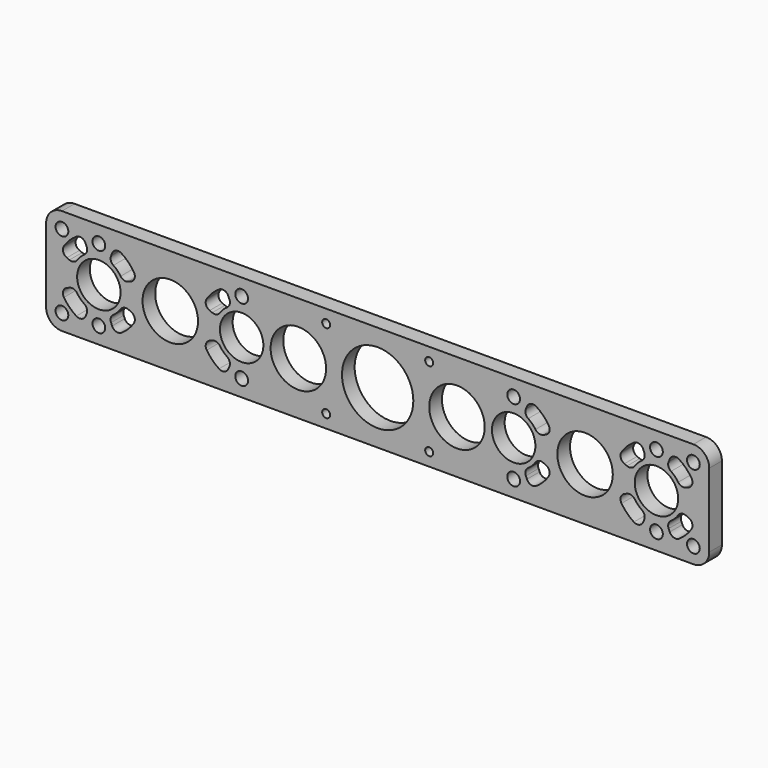
from build123d import *

# Parameters (mm, degrees)
F0_R     = 2.5527
F0_R_2   = 8.6995
F0_R_3   = 11.1125
F0_R_4   = 14.2875
F1_DEPTH = 6.35
F2_R     = 1.5875
F3_DEPTH = 6.351
F5_DEPTH = 6.351


with BuildPart() as f1:
    # F0 (on Front) → F1 (new body)
    with BuildSketch(Plane.XZ):
        with BuildLine():
            Line((111.6838, 21.1455), (-111.6838, 21.1455))
            Line((-111.6838, 21.1455), (-126.4793, 21.1455))
            ThreePointArc((-126.4793, 21.1455), (-130.969428, 19.285628), (-132.8293, 14.7955))
            Line((-132.8293, 14.7955), (-132.8293, -14.7955))
            ThreePointArc((-132.8293, -14.7955), (-130.969428, -19.285628), (-126.4793, -21.1455))
            Line((-126.4793, -21.1455), (-111.6838, -21.1455))
            Line((-111.6838, -21.1455), (111.6838, -21.1455))
            Line((111.6838, -21.1455), (126.4793, -21.1455))
            ThreePointArc((126.4793, -21.1455), (130.969428, -19.285628), (132.8293, -14.7955))
            Line((132.8293, -14.7955), (132.8293, 14.7955))
            ThreePointArc((132.8293, 14.7955), (130.969428, 19.285628), (126.4793, 21.1455))
            Line((126.4793, 21.1455), (111.6838, 21.1455))
        make_face()
        with Locations((-126.4793, -14.7955)):
            Circle(F0_R, mode=Mode.SUBTRACT)
        with Locations((-111.6838, -14.5)):
            Circle(F0_R, mode=Mode.SUBTRACT)
        with Locations((-54.483, -14.5)):
            Circle(F0_R, mode=Mode.SUBTRACT)
        with Locations((54.483, -14.5)):
            Circle(F0_R, mode=Mode.SUBTRACT)
        with Locations((111.6838, -14.5)):
            Circle(F0_R, mode=Mode.SUBTRACT)
        with Locations((126.4793, -14.7955)):
            Circle(F0_R, mode=Mode.SUBTRACT)
        with Locations((-111.6838, 0)):
            Circle(F0_R_2, mode=Mode.SUBTRACT)
        with Locations((-83.0834, 0)):
            Circle(F0_R_3, mode=Mode.SUBTRACT)
        with Locations((-54.483, 0)):
            Circle(F0_R_2, mode=Mode.SUBTRACT)
        with Locations((-31.7754, 0)):
            Circle(F0_R_3, mode=Mode.SUBTRACT)
        with Locations((-126.4793, 14.7955)):
            Circle(F0_R, mode=Mode.SUBTRACT)
        with Locations((-111.6838, 14.5)):
            Circle(F0_R, mode=Mode.SUBTRACT)
        with Locations((-54.483, 14.5)):
            Circle(F0_R, mode=Mode.SUBTRACT)
        Circle(F0_R_4, mode=Mode.SUBTRACT)
        with Locations((31.7754, 0)):
            Circle(F0_R_3, mode=Mode.SUBTRACT)
        with Locations((54.483, 0)):
            Circle(F0_R_2, mode=Mode.SUBTRACT)
        with Locations((83.0834, 0)):
            Circle(F0_R_3, mode=Mode.SUBTRACT)
        with Locations((111.6838, 0)):
            Circle(F0_R_2, mode=Mode.SUBTRACT)
        with Locations((54.483, 14.5)):
            Circle(F0_R, mode=Mode.SUBTRACT)
        with Locations((111.6838, 14.5)):
            Circle(F0_R, mode=Mode.SUBTRACT)
        with Locations((126.4793, 14.7955)):
            Circle(F0_R, mode=Mode.SUBTRACT)
    extrude(amount=F1_DEPTH)

    # F2 (on face) → F3 (cut, through all)
    with BuildSketch(Plane.XZ.offset(6.35)):
        with Locations((20.6375, 15.875)):
            Circle(F2_R)
        with Locations((20.6375, -15.875)):
            Circle(F2_R)
        with Locations((-20.6375, -15.875)):
            Circle(F2_R)
        with Locations((-20.6375, 15.875)):
            Circle(F2_R)
    extrude(amount=-F3_DEPTH, mode=Mode.SUBTRACT)

    # F4 (on face) → F5 (cut, through all)
    with BuildSketch(Plane(origin=(0, 0, 0), x_dir=(-1, 0, 0), z_dir=(0, 1, 0))):
        with BuildLine():
            Line((106.365051, -12.840595), (106.797969, -11.795438))
            ThreePointArc((106.797969, -11.795438), (106.881956, -10.086139), (105.862532, -8.711535))
            ThreePointArc((105.862532, -8.711535), (104.275089, -7.408711), (102.972265, -5.821268))
            ThreePointArc((102.972265, -5.821268), (101.597661, -4.801844), (99.888362, -4.885831))
            Line((99.888362, -4.885831), (98.843205, -5.318749))
            ThreePointArc((98.843205, -5.318749), (97.390414, -6.909154), (97.681543, -9.043453))
            ThreePointArc((97.681543, -9.043453), (99.897214, -11.786586), (102.640347, -14.002257))
            ThreePointArc((102.640347, -14.002257), (104.774646, -14.293386), (106.365051, -12.840595))
        make_face()
        with BuildLine():
            Line((98.843205, 5.318749), (99.888362, 4.885831))
            ThreePointArc((99.888362, 4.885831), (101.597661, 4.801844), (102.972265, 5.821268))
            ThreePointArc((102.972265, 5.821268), (104.275089, 7.408711), (105.862532, 8.711535))
            ThreePointArc((105.862532, 8.711535), (106.881956, 10.086139), (106.797969, 11.795438))
            Line((106.797969, 11.795438), (106.365051, 12.840595))
            ThreePointArc((106.365051, 12.840595), (104.774646, 14.293386), (102.640347, 14.002257))
            ThreePointArc((102.640347, 14.002257), (99.897214, 11.786586), (97.681543, 9.043453))
            ThreePointArc((97.681543, 9.043453), (97.390414, 6.909154), (98.843205, 5.318749))
        make_face()
        with BuildLine():
            Line((117.002549, 12.840595), (116.569631, 11.795438))
            ThreePointArc((116.569631, 11.795438), (116.485644, 10.086139), (117.505068, 8.711535))
            ThreePointArc((117.505068, 8.711535), (119.092511, 7.408711), (120.395335, 5.821268))
            ThreePointArc((120.395335, 5.821268), (121.769939, 4.801844), (123.479238, 4.885831))
            Line((123.479238, 4.885831), (124.524395, 5.318749))
            ThreePointArc((124.524395, 5.318749), (125.977186, 6.909154), (125.686057, 9.043453))
            ThreePointArc((125.686057, 9.043453), (123.470386, 11.786586), (120.727253, 14.002257))
            ThreePointArc((120.727253, 14.002257), (118.592954, 14.293386), (117.002549, 12.840595))
        make_face()
        with BuildLine():
            Line((124.524395, -5.318749), (123.479238, -4.885831))
            ThreePointArc((123.479238, -4.885831), (121.769939, -4.801844), (120.395335, -5.821268))
            ThreePointArc((120.395335, -5.821268), (119.092511, -7.408711), (117.505068, -8.711535))
            ThreePointArc((117.505068, -8.711535), (116.485644, -10.086139), (116.569631, -11.795438))
            Line((116.569631, -11.795438), (117.002549, -12.840595))
            ThreePointArc((117.002549, -12.840595), (118.592954, -14.293386), (120.727253, -14.002257))
            ThreePointArc((120.727253, -14.002257), (123.470386, -11.786586), (125.686057, -9.043453))
            ThreePointArc((125.686057, -9.043453), (125.977186, -6.909154), (124.524395, -5.318749))
        make_face()
        with BuildLine():
            Line((59.801749, 12.840595), (59.368831, 11.795438))
            ThreePointArc((59.368831, 11.795438), (59.284844, 10.086139), (60.304268, 8.711535))
            ThreePointArc((60.304268, 8.711535), (61.891711, 7.408711), (63.194535, 5.821268))
            ThreePointArc((63.194535, 5.821268), (64.569139, 4.801844), (66.278438, 4.885831))
            Line((66.278438, 4.885831), (67.323595, 5.318749))
            ThreePointArc((67.323595, 5.318749), (68.776386, 6.909154), (68.485257, 9.043453))
            ThreePointArc((68.485257, 9.043453), (66.269586, 11.786586), (63.526453, 14.002257))
            ThreePointArc((63.526453, 14.002257), (61.392154, 14.293386), (59.801749, 12.840595))
        make_face()
        with BuildLine():
            Line((67.323595, -5.318749), (66.278438, -4.885831))
            ThreePointArc((66.278438, -4.885831), (64.569139, -4.801844), (63.194535, -5.821268))
            ThreePointArc((63.194535, -5.821268), (61.891711, -7.408711), (60.304268, -8.711535))
            ThreePointArc((60.304268, -8.711535), (59.284844, -10.086139), (59.368831, -11.795438))
            Line((59.368831, -11.795438), (59.801749, -12.840595))
            ThreePointArc((59.801749, -12.840595), (61.392154, -14.293386), (63.526453, -14.002257))
            ThreePointArc((63.526453, -14.002257), (66.269586, -11.786586), (68.485257, -9.043453))
            ThreePointArc((68.485257, -9.043453), (68.776386, -6.909154), (67.323595, -5.318749))
        make_face()
        with BuildLine():
            Line((-59.801749, -12.840595), (-59.368831, -11.795438))
            ThreePointArc((-59.368831, -11.795438), (-59.284844, -10.086139), (-60.304268, -8.711535))
            ThreePointArc((-60.304268, -8.711535), (-61.891711, -7.408711), (-63.194535, -5.821268))
            ThreePointArc((-63.194535, -5.821268), (-64.569139, -4.801844), (-66.278438, -4.885831))
            Line((-66.278438, -4.885831), (-67.323595, -5.318749))
            ThreePointArc((-67.323595, -5.318749), (-68.776386, -6.909154), (-68.485257, -9.043453))
            ThreePointArc((-68.485257, -9.043453), (-66.269586, -11.786586), (-63.526453, -14.002257))
            ThreePointArc((-63.526453, -14.002257), (-61.392154, -14.293386), (-59.801749, -12.840595))
        make_face()
        with BuildLine():
            Line((-67.323595, 5.318749), (-66.278438, 4.885831))
            ThreePointArc((-66.278438, 4.885831), (-64.569139, 4.801844), (-63.194535, 5.821268))
            ThreePointArc((-63.194535, 5.821268), (-61.891711, 7.408711), (-60.304268, 8.711535))
            ThreePointArc((-60.304268, 8.711535), (-59.284844, 10.086139), (-59.368831, 11.795438))
            Line((-59.368831, 11.795438), (-59.801749, 12.840595))
            ThreePointArc((-59.801749, 12.840595), (-61.392154, 14.293386), (-63.526453, 14.002257))
            ThreePointArc((-63.526453, 14.002257), (-66.269586, 11.786586), (-68.485257, 9.043453))
            ThreePointArc((-68.485257, 9.043453), (-68.776386, 6.909154), (-67.323595, 5.318749))
        make_face()
        with BuildLine():
            Line((-117.002549, -12.840595), (-116.569631, -11.795438))
            ThreePointArc((-116.569631, -11.795438), (-116.485644, -10.086139), (-117.505068, -8.711535))
            ThreePointArc((-117.505068, -8.711535), (-119.092511, -7.408711), (-120.395335, -5.821268))
            ThreePointArc((-120.395335, -5.821268), (-121.769939, -4.801844), (-123.479238, -4.885831))
            Line((-123.479238, -4.885831), (-124.524395, -5.318749))
            ThreePointArc((-124.524395, -5.318749), (-125.977186, -6.909154), (-125.686057, -9.043453))
            ThreePointArc((-125.686057, -9.043453), (-123.470386, -11.786586), (-120.727253, -14.002257))
            ThreePointArc((-120.727253, -14.002257), (-118.592954, -14.293386), (-117.002549, -12.840595))
        make_face()
        with BuildLine():
            Line((-124.524395, 5.318749), (-123.479238, 4.885831))
            ThreePointArc((-123.479238, 4.885831), (-121.769939, 4.801844), (-120.395335, 5.821268))
            ThreePointArc((-120.395335, 5.821268), (-119.092511, 7.408711), (-117.505068, 8.711535))
            ThreePointArc((-117.505068, 8.711535), (-116.485644, 10.086139), (-116.569631, 11.795438))
            Line((-116.569631, 11.795438), (-117.002549, 12.840595))
            ThreePointArc((-117.002549, 12.840595), (-118.592954, 14.293386), (-120.727253, 14.002257))
            ThreePointArc((-120.727253, 14.002257), (-123.470386, 11.786586), (-125.686057, 9.043453))
            ThreePointArc((-125.686057, 9.043453), (-125.977186, 6.909154), (-124.524395, 5.318749))
        make_face()
        with BuildLine():
            Line((-106.365051, 12.840595), (-106.797969, 11.795438))
            ThreePointArc((-106.797969, 11.795438), (-106.881956, 10.086139), (-105.862532, 8.711535))
            ThreePointArc((-105.862532, 8.711535), (-104.275089, 7.408711), (-102.972265, 5.821268))
            ThreePointArc((-102.972265, 5.821268), (-101.597661, 4.801844), (-99.888362, 4.885831))
            Line((-99.888362, 4.885831), (-98.843205, 5.318749))
            ThreePointArc((-98.843205, 5.318749), (-97.390414, 6.909154), (-97.681543, 9.043453))
            ThreePointArc((-97.681543, 9.043453), (-99.897214, 11.786586), (-102.640347, 14.002257))
            ThreePointArc((-102.640347, 14.002257), (-104.774646, 14.293386), (-106.365051, 12.840595))
        make_face()
        with BuildLine():
            Line((-98.843205, -5.318749), (-99.888362, -4.885831))
            ThreePointArc((-99.888362, -4.885831), (-101.597661, -4.801844), (-102.972265, -5.821268))
            ThreePointArc((-102.972265, -5.821268), (-104.275089, -7.408711), (-105.862532, -8.711535))
            ThreePointArc((-105.862532, -8.711535), (-106.881956, -10.086139), (-106.797969, -11.795438))
            Line((-106.797969, -11.795438), (-106.365051, -12.840595))
            ThreePointArc((-106.365051, -12.840595), (-104.774646, -14.293386), (-102.640347, -14.002257))
            ThreePointArc((-102.640347, -14.002257), (-99.897214, -11.786586), (-97.681543, -9.043453))
            ThreePointArc((-97.681543, -9.043453), (-97.390414, -6.909154), (-98.843205, -5.318749))
        make_face()
    extrude(amount=-F5_DEPTH, mode=Mode.SUBTRACT)


solid = f1.part
